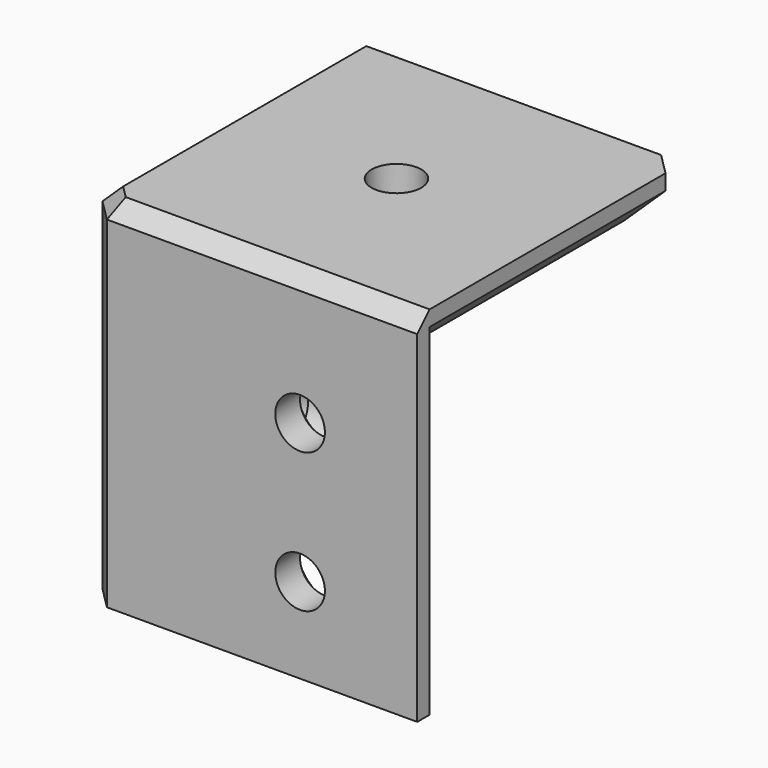
from build123d import *

# Parameters (mm, degrees)
PAD018_DEPTH    = 20
PAD019_DEPTH    = 3
CHAMFER_SIZE    = 2
CHAMFER001_SIZE = 1
SKETCH029_R     = 1.6
POCKET006_DEPTH = 5
CHAMFER002_SIZE = 1
SKETCH030_R     = 1.6
POCKET007_DEPTH = 3
CHAMFER003_SIZE = 1
SKETCH031_R     = 1.6
POCKET008_DEPTH = 3.001
CHAMFER004_SIZE = 1


with BuildPart() as part:
    # Sketch027 → Pad018 (new body)
    with BuildSketch(Plane.XY):
        Polygon((19.414214, 3), (8.313708, 3), (3, 8.313708), (3, 19.414214), (1, 21.414214), (0, 21.414214), (0, 1.414214), (1.414214, 0), (21.414214, 0), (21.414214, 1), align=None)
    extrude(amount=-PAD018_DEPTH)

    # Sketch028 → Pad019 (join)
    with BuildSketch(Plane.XY):
        Polygon((0, 21.414214), (20, 21.414214), (21.414214, 20), (21.414214, 0), (1.414214, 0), (0, 1.414214), align=None)
    extrude(amount=PAD019_DEPTH)

    # Chamfer
    chamfer_edges = [part.edges().sort_by_distance(p)[0] for p in [
        (21.414214, 10.5, 0),
        (20.707107, 20.707107, 0),
        (10.5, 21.414214, 0),
    ]]
    chamfer(chamfer_edges, length=CHAMFER_SIZE)

    # Chamfer001
    chamfer001_edges = [part.edges().sort_by_distance(p)[0] for p in [
        (0.707107, 0.707107, 3),
        (11.414214, 0, 3),
        (0, 11.414214, 3),
    ]]
    chamfer(chamfer001_edges, length=CHAMFER001_SIZE)

    # Sketch029 (on Face15 of Chamfer001) → Pocket006 (cut)
    with BuildSketch(Plane(origin=(0, 0, 0), x_dir=(1, 0, 0), z_dir=(0, 0, -1))):
        with Locations((11.207107, -11.085786)):
            Circle(SKETCH029_R)
    extrude(amount=-POCKET006_DEPTH, mode=Mode.SUBTRACT)

    # Chamfer002
    chamfer002_edges = [part.edges().sort_by_distance(p)[0] for p in [
        (9.607107, 11.085786, 0),
    ]]
    chamfer(chamfer002_edges, length=CHAMFER002_SIZE)

    # Sketch030 (on Face16 of Chamfer002) → Pocket007 (cut)
    with BuildSketch(Plane.YZ.offset(3)):
        with Locations((13.863961, -14.5)):
            Circle(SKETCH030_R)
        with Locations((13.863961, -5.5)):
            Circle(SKETCH030_R)
    extrude(amount=-POCKET007_DEPTH, mode=Mode.SUBTRACT)

    # Chamfer003
    chamfer003_edges = [part.edges().sort_by_distance(p)[0] for p in [
        (3, 12.263961, -14.5),
        (3, 12.263961, -5.5),
    ]]
    chamfer(chamfer003_edges, length=CHAMFER003_SIZE)

    # Sketch031 (on Face9 of Chamfer003) → Pocket008 (cut, through all)
    with BuildSketch(Plane(origin=(0, 3, 0), x_dir=(-1, 0, 0), z_dir=(0, 1, 0))):
        with Locations((-13.863961, -5.5)):
            Circle(SKETCH031_R)
        with Locations((-13.863961, -14.5)):
            Circle(SKETCH031_R)
    extrude(amount=-POCKET008_DEPTH, mode=Mode.SUBTRACT)

    # Chamfer004
    chamfer004_edges = [part.edges().sort_by_distance(p)[0] for p in [
        (15.463961, 3, -5.5),
        (15.463961, 3, -14.5),
    ]]
    chamfer(chamfer004_edges, length=CHAMFER004_SIZE)


with BuildPart() as part_1:
    # Body024 placement: moved
    add(part.part.moved(Location((0, 0, -18))))


solid = part_1.part
